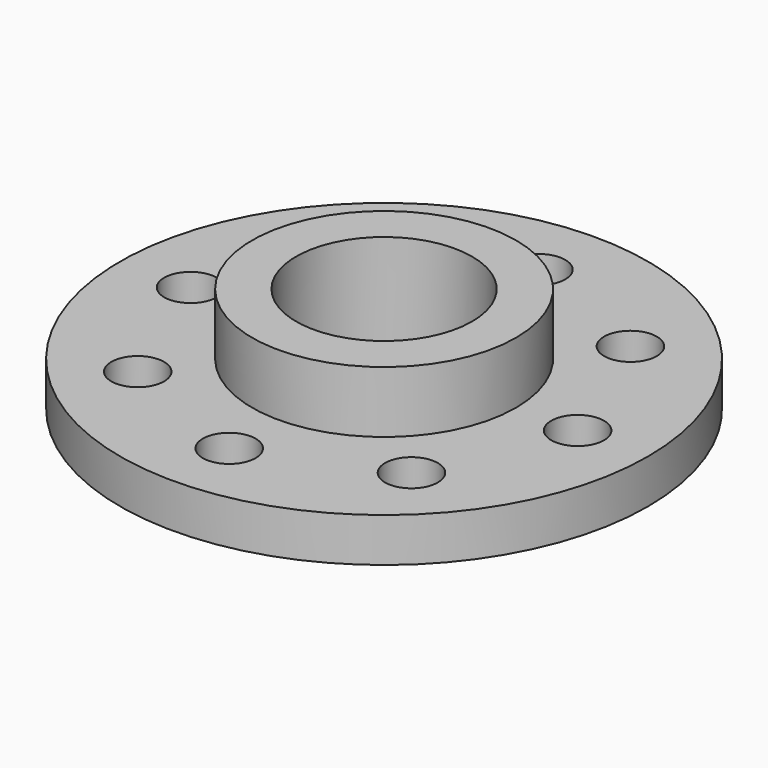
from build123d import *

# Parameters (mm, degrees)
CYLINDER003_R     = 3
CYLINDER003_DEPTH = 10
ARRAY001_COUNT    = 8
CYLINDER002_R     = 10
CYLINDER002_DEPTH = 30
CYLINDER001_R     = 30
CYLINDER001_DEPTH = 5
CYLINDER_R        = 15
CYLINDER_DEPTH    = 12


with BuildPart() as array001:
    # Cylinder003 → Cylinder003 (new body)
    with BuildSketch(Plane(origin=(22, 0, -1), x_dir=(1, 0, 0), z_dir=(0, 0, 1))):
        Circle(CYLINDER003_R)
    extrude(amount=CYLINDER003_DEPTH)

    # Array001: Array001 ×8 about axis
    array001_axis = Axis((0, 0, 0), (0, 0, 1))


with BuildPart() as array001_1:
    add(array001.part)
    for i in range(1, ARRAY001_COUNT):
        add(array001.part.rotate(array001_axis, i * 360 / ARRAY001_COUNT))


with BuildPart() as tubo_interior:
    # Cylinder002 → Cylinder002 (new body)
    with BuildSketch(Plane.XY.offset(-1)):
        Circle(CYLINDER002_R)
    extrude(amount=CYLINDER002_DEPTH)


with BuildPart() as tubo:
    # Cylinder001 → Cylinder001 (new body)
    with BuildSketch(Plane.XY):
        Circle(CYLINDER001_R)
    extrude(amount=CYLINDER001_DEPTH)


with BuildPart() as cut002:
    # Cylinder → Cylinder (new body)
    with BuildSketch(Plane.XY):
        Circle(CYLINDER_R)
    extrude(amount=CYLINDER_DEPTH)

    # Fusion: union Tubo
    add(tubo.part)

    # Cut: cut Tubo interior
    add(tubo_interior.part, mode=Mode.SUBTRACT)

    # Cut002: cut Array001
    add(array001_1.part, mode=Mode.SUBTRACT)


solid = cut002.part
